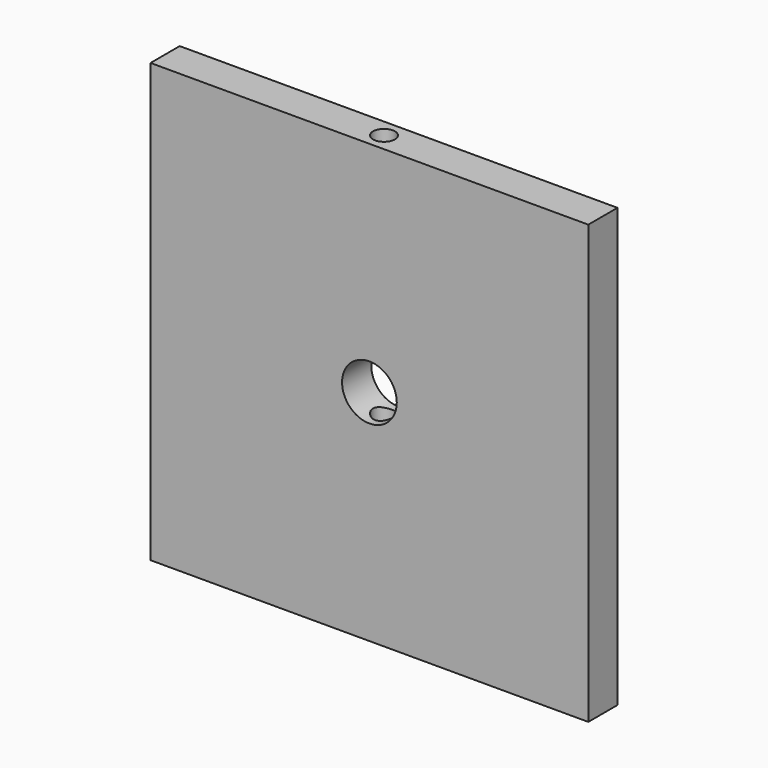
from build123d import *

# Parameters (mm, degrees)
F0_W     = 76.2
F0_H     = 76.2
F0_R     = 4.7625
F1_DEPTH = 6.35
F2_R     = 1.905
F3_DEPTH = 76.201


with BuildPart() as f1:
    # F0 (on Front) → F1 (new body)
    with BuildSketch(Plane.XZ):
        Rectangle(F0_W, F0_H)
        Circle(F0_R, mode=Mode.SUBTRACT)
    extrude(amount=F1_DEPTH)

    # F2 (on face) → F3 (cut, through all)
    with BuildSketch(Plane.XY.offset(38.1)):
        with Locations((0, -3.175)):
            Circle(F2_R)
    extrude(amount=-F3_DEPTH, mode=Mode.SUBTRACT)


solid = f1.part
